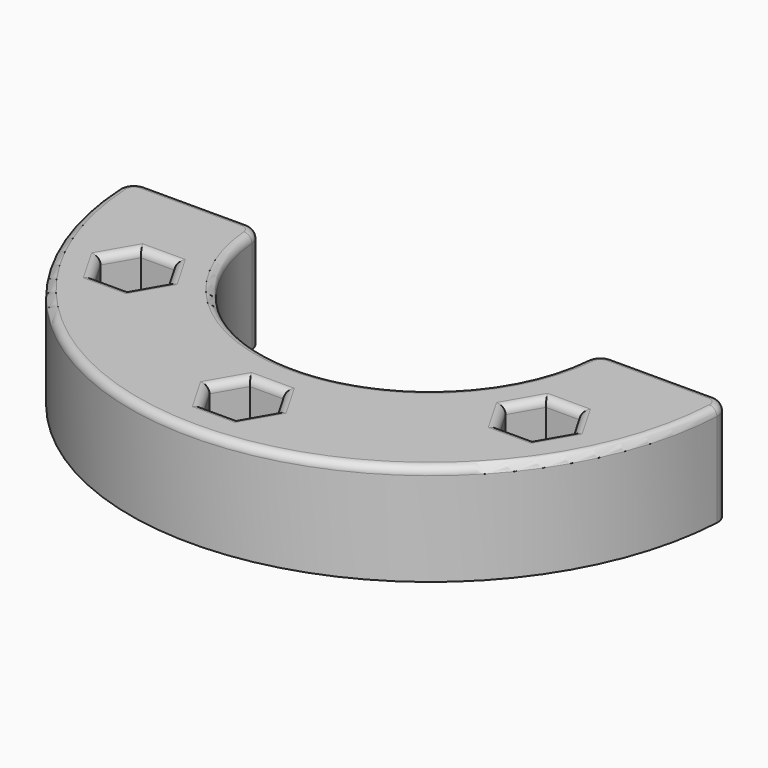
from build123d import *

# Parameters (mm, degrees)
F1_DEPTH = 13
F2_R     = 2.1
F3_DEPTH = 13.001
F5_DEPTH = 5
F6_R     = 1


with BuildPart() as f1:
    # F0 (on Top) → F1 (new body)
    with BuildSketch(Plane.XY):
        with BuildLine():
            ThreePointArc((21.421995, -1.829787), (0, -21.5), (-21.421995, -1.829787))
            ThreePointArc((-21.421995, -1.829787), (-22.062043, -0.526836), (-23.414739, 0))
            Line((-23.414739, 0), (-36.445164, 0))
            ThreePointArc((-36.445164, 0), (-37.897607, -0.625078), (-38.44216, -2.109589))
            ThreePointArc((-38.44216, -2.109589), (0, -38.5), (38.44216, -2.109589))
            ThreePointArc((38.44216, -2.109589), (37.897607, -0.625078), (36.445164, 0))
            Line((36.445164, 0), (23.414739, 0))
            ThreePointArc((23.414739, 0), (22.062043, -0.526836), (21.421995, -1.829787))
        make_face()
    extrude(amount=F1_DEPTH)

    # F2 (on face) → F3 (cut, through all)
    with BuildSketch(Plane.XY):
        with Locations((-25.980762, -15)):
            Circle(F2_R)
        with Locations((0, -30)):
            Circle(F2_R)
        with Locations((25.980762, -15)):
            Circle(F2_R)
    extrude(amount=F3_DEPTH, mode=Mode.SUBTRACT)

    # F4 (on face) → F5 (cut)
    with BuildSketch(Plane.XY.offset(13)):
        Polygon((-23.815699, -18.75), (-21.650635, -15), (-23.815699, -11.25), (-28.145826, -11.25), (-30.310889, -15), (-28.145826, -18.75), align=None)
        Polygon((-2.165064, -33.75), (2.165064, -33.75), (4.330127, -30), (2.165064, -26.25), (-2.165064, -26.25), (-4.330127, -30), align=None)
        Polygon((23.815699, -18.75), (28.145826, -18.75), (30.310889, -15), (28.145826, -11.25), (23.815699, -11.25), (21.650635, -15), align=None)
    extrude(amount=-F5_DEPTH, mode=Mode.SUBTRACT)

    # F6
    f6_edges = [f1.edges().sort_by_distance(p)[0] for p in [
        (0, -21.5, 13),
        (22.062043, -0.526836, 13),
        (-22.062043, -0.526836, 13),
        (29.929952, 0, 13),
        (-29.929952, 0, 13),
        (37.897607, -0.625078, 13),
        (-37.897607, -0.625078, 13),
        (0, -38.5, 13),
        (-3.247595, -31.875, 13),
        (0, -33.75, 13),
        (3.247595, -31.875, 13),
        (3.247595, -28.125, 13),
        (0, -26.25, 13),
        (-3.247595, -28.125, 13),
        (-22.733167, -16.875, 13),
        (-22.733167, -13.125, 13),
        (-25.980762, -11.25, 13),
        (-29.228357, -13.125, 13),
        (-29.228357, -16.875, 13),
        (-25.980762, -18.75, 13),
        (22.733167, -16.875, 13),
        (25.980762, -18.75, 13),
        (29.228357, -16.875, 13),
        (29.228357, -13.125, 13),
        (25.980762, -11.25, 13),
        (22.733167, -13.125, 13),
    ]]
    fillet(f6_edges, radius=F6_R)


solid = f1.part
